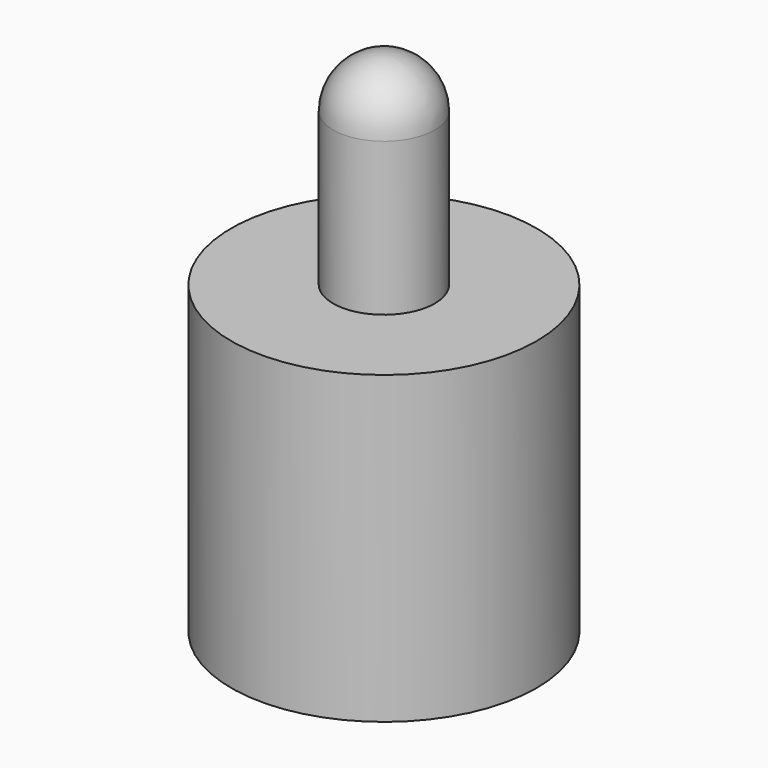
from build123d import *

# Parameters (mm, degrees)
F0_R     = 7.5
F1_DEPTH = 15
F2_R     = 1
F3_DEPTH = 5
F4_R     = 2.5
F5_DEPTH = 10
F6_R     = 2.5


with BuildPart() as f1:
    # F0 (on Top) → F1 (new body)
    with BuildSketch(Plane.XY):
        Circle(F0_R)
    extrude(amount=F1_DEPTH)

    # F2 (on face) → F3 (cut)
    with BuildSketch(Plane(origin=(0, 0, 0), x_dir=(1, 0, 0), z_dir=(0, 0, -1))):
        with Locations((0, 5)):
            Circle(F2_R)
        with Locations((-5, 0)):
            Circle(F2_R)
        with Locations((0, -5)):
            Circle(F2_R)
        with Locations((5, 0)):
            Circle(F2_R)
    extrude(amount=-F3_DEPTH, mode=Mode.SUBTRACT)

    # F4 (on face) → F5 (join)
    with BuildSketch(Plane.XY.offset(15)):
        Circle(F4_R)
    extrude(amount=F5_DEPTH)

    # F6
    f6_edges = [f1.edges().sort_by_distance(p)[0] for p in [
        (-2.5, 0, 25),
    ]]
    fillet(f6_edges, radius=F6_R)


solid = f1.part
